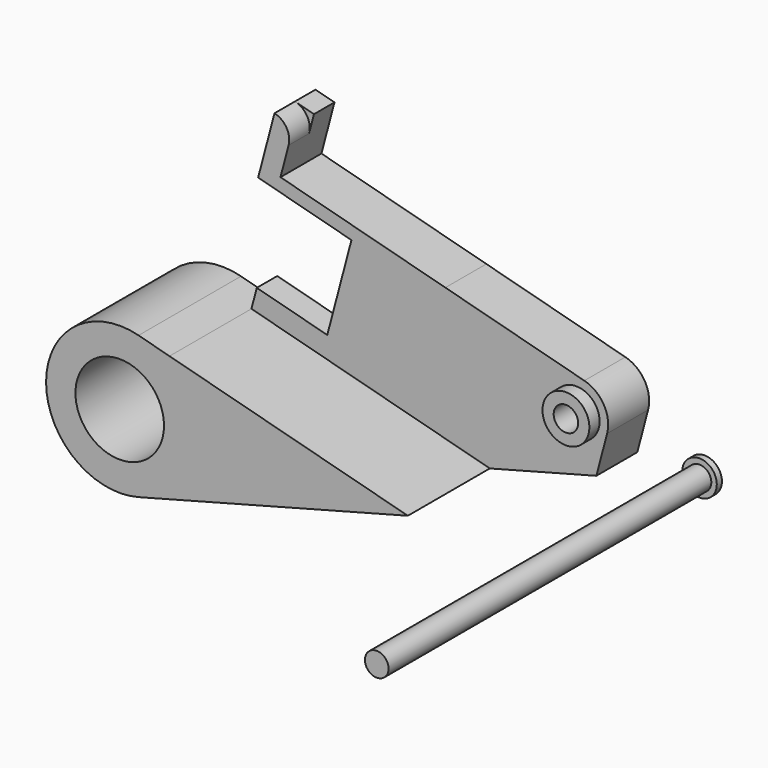
from build123d import *

# Parameters (mm, degrees)
F0_R      = 1.7567686569
F0_R_2    = 1.27
F1_DEPTH  = 5.08
F2_R      = 1.7567686569
F2_R_2    = 1.27
F3_DEPTH  = 4.064
F4_DEPTH  = 1.016
F0_R_3    = 0.9300746286
F0_R_4    = 0.4860685378
F5_DEPTH  = 1.016
F6_R      = 0.762
F7_R      = 0.9300746286
F7_R_2    = 0.4860685378
F8_DEPTH  = 0.508
F9_R      = 0.9300746286
F10_DEPTH = 1.016
F11_R     = 0.4699
F12_DEPTH = 16.002
F11_R_2   = 0.6872139148
F13_DEPTH = 0.254


with BuildPart() as f1:
    # F0 (on Front) → F1 (new body)
    with BuildSketch(Plane.XZ):
        with BuildLine():
            ThreePointArc((0.7464777778, -2.8240063611), (2.314379246, -1.782102608), (2.921, 0))
            ThreePointArc((2.921, 0), (2.314379246, 1.782102608), (0.7464777778, 2.8240063611))
            ThreePointArc((0.7464777778, 2.8240063611), (-2.921, 0), (0.7464777778, -2.8240063611))
        make_face()
        Circle(F0_R, mode=Mode.SUBTRACT)
        with BuildLine():
            ThreePointArc((0.7464777778, 2.8240063611), (2.314379246, 1.782102608), (2.921, 0))
            ThreePointArc((2.921, 0), (2.314379246, -1.782102608), (0.7464777778, -2.8240063611))
            Line((0.7464777778, -2.8240063611), (11.43, 0))
            Line((11.43, 0), (1.9743066304, 2.4994508055))
            Line((1.9743066304, 2.4994508055), (0.7464777778, 2.8240063611))
        make_face()
        Circle(F0_R)
        Circle(F0_R_2, mode=Mode.SUBTRACT)
    extrude(amount=F1_DEPTH)

    # F2 (on face) → F3 (cut)
    with BuildSketch(Plane.XZ.offset(5.08)):
        Circle(F2_R)
        Circle(F2_R_2, mode=Mode.SUBTRACT)
    extrude(amount=-F3_DEPTH, mode=Mode.SUBTRACT)

    # F0 (on Front) → F4 (join)
    with BuildSketch(Plane.XZ):
        Polygon((2.1864742005, 3.3021037248), (1.9743066304, 2.4994508055), (11.43, 0), (13.0543452908, 0.4293678937), (4.9820835702, 2.563132206), align=None)
    extrude(amount=F4_DEPTH)

    # F0 (on Front) → F5 (join)
    with BuildSketch(Plane.XZ):
        with BuildLine():
            Line((4.9820835702, 2.563132206), (13.0543452908, 0.4293678937))
            Line((13.0543452908, 0.4293678937), (15.6560332857, 1.1170796141))
            Line((15.6560332857, 1.1170796141), (16.082858903, 2.7318071978))
            ThreePointArc((16.082858903, 2.7318071978), (15.9527315924, 3.695073427), (15.179585606, 4.284191606))
            Line((15.179585606, 4.284191606), (9.6670175249, 5.7413446874))
            Line((9.6670175249, 5.7413446874), (3.1256630132, 7.4704398647))
            Line((3.1256630132, 7.4704398647), (3.6428297398, 9.4269376588))
            Line((3.6428297398, 9.4269376588), (2.8890208753, 9.6261941385))
            Line((2.8890208753, 9.6261941385), (2.2392912403, 7.16819649))
            Line((2.2392912403, 7.16819649), (5.9407272542, 6.1897851917))
            Line((5.9407272542, 6.1897851917), (4.9820835702, 2.563132206))
        make_face()
        with Locations((14.8550300504, 3.0563627533)):
            Circle(F0_R_3, mode=Mode.SUBTRACT)
        with Locations((14.8550300504, 3.0563627533)):
            Circle(F0_R_3)
        with Locations((14.8550300504, 3.0563627533)):
            Circle(F0_R_4, mode=Mode.SUBTRACT)
    extrude(amount=F5_DEPTH)

    # F6
    f6_edges = [f1.edges().sort_by_distance(p)[0] for p in [
        (3.64283, -0.508, 9.426938),
    ]]
    fillet(f6_edges, radius=F6_R)

    # F7 (on face) → F8 (join)
    with BuildSketch(Plane.XZ.offset(1.016)):
        with Locations((14.8550300504, 3.0563627533)):
            Circle(F7_R)
        with Locations((14.8550300504, 3.0563627533)):
            Circle(F7_R_2, mode=Mode.SUBTRACT)
    extrude(amount=F8_DEPTH)

    # F9 (on face) → F10 (join)
    with BuildSketch(Plane.XZ):
        with BuildLine():
            Line((4.9820835702, 2.563132206), (10.9209979791, 0.9932817653))
            Line((10.9209979791, 0.9932817653), (15.6560332857, 1.1170796141))
            Line((15.6560332857, 1.1170796141), (16.082858903, 2.7318071978))
            ThreePointArc((16.082858903, 2.7318071978), (15.9527315924, 3.695073427), (15.179585606, 4.284191606))
            Line((15.179585606, 4.284191606), (9.6670175249, 5.7413446874))
            Line((9.6670175249, 5.7413446874), (3.1256630132, 7.4704398647))
            Line((3.1256630132, 7.4704398647), (3.6428297398, 9.4269376588))
            Line((3.6428297398, 9.4269376588), (2.8890208753, 9.6261941385))
            Line((2.8890208753, 9.6261941385), (2.2392912403, 7.16819649))
            Line((2.2392912403, 7.16819649), (5.9407272542, 6.1897851917))
            Line((5.9407272542, 6.1897851917), (4.9820835702, 2.563132206))
        make_face()
        with Locations((14.8550300504, 3.0563627533)):
            Circle(F9_R, mode=Mode.SUBTRACT)
    extrude(amount=-F10_DEPTH)


with BuildPart() as f12:
    # F11 (on face) → F12 (new body)
    with BuildSketch(Plane.XZ.offset(1.016)):
        with Locations((19.7462402284, 2.3714201525)):
            Circle(F11_R)
    extrude(amount=F12_DEPTH)

    # F11 (on face) → F13 (join)
    with BuildSketch(Plane.XZ.offset(1.016)):
        with Locations((19.7462402284, 2.3714201525)):
            Circle(F11_R_2)
        with Locations((19.7462402284, 2.3714201525)):
            Circle(F11_R, mode=Mode.SUBTRACT)
        with Locations((19.7462402284, 2.3714201525)):
            Circle(F11_R)
    extrude(amount=-F13_DEPTH)


solid = Compound([f1.part, f12.part])
